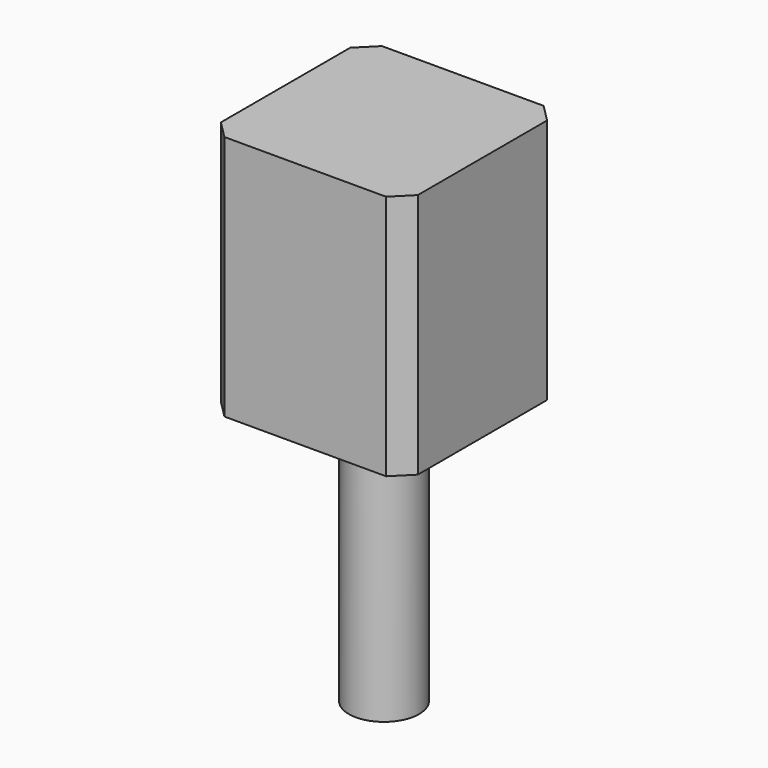
from build123d import *

# Parameters (mm, degrees)
F0_W     = 11.176
F0_H     = 11.176
F1_DEPTH = 13.97
F2_SIZE  = 1
F3_R     = 1.9939
F4_DEPTH = 15


with BuildPart() as f1:
    # F0 (on Top) → F1 (new body)
    with BuildSketch(Plane.XY):
        Rectangle(F0_W, F0_H)
    extrude(amount=F1_DEPTH)

    # F2
    f2_edges = [f1.edges().sort_by_distance(p)[0] for p in [
        (5.588, 5.588, 6.985),
        (5.588, -5.588, 6.985),
        (-5.588, -5.588, 6.985),
        (-5.588, 5.588, 6.985),
    ]]
    chamfer(f2_edges, length=F2_SIZE)

    # F3 (on face) → F4 (join)
    with BuildSketch(Plane(origin=(0, 0, 0), x_dir=(1, 0, 0), z_dir=(0, 0, -1))):
        Circle(F3_R)
    extrude(amount=F4_DEPTH)


solid = f1.part
